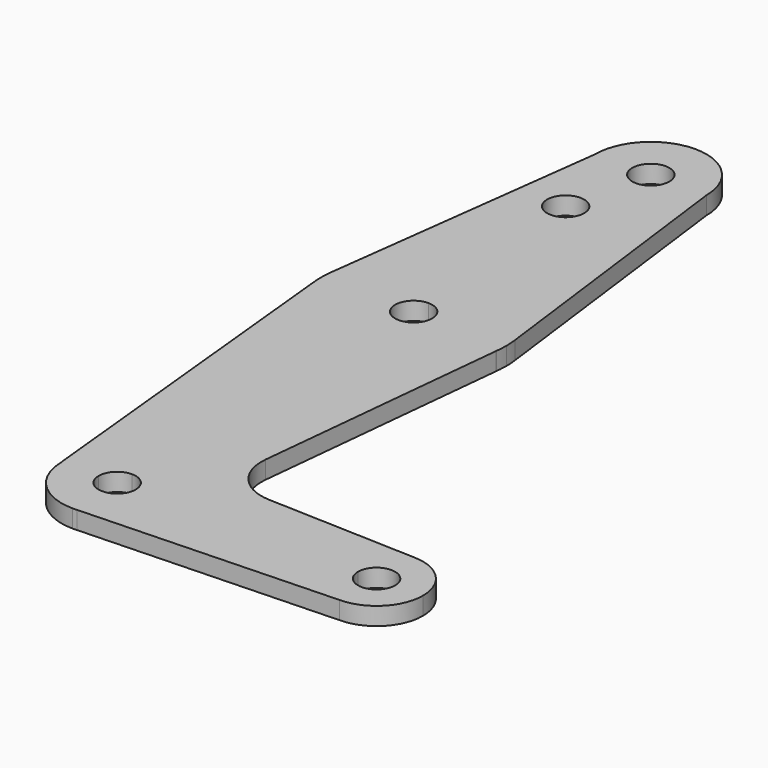
from build123d import *

# Parameters (mm, degrees)
F0_R     = 3.175
F1_DEPTH = 3.048


with BuildPart() as f1:
    # F0 (on Top) → F1 (new body)
    with BuildSketch(Plane.XY):
        with BuildLine():
            ThreePointArc((-3.175, 0), (-2.2450640303, 2.2450640303), (0, 3.175))
            Line((0, 3.175), (0, 3.1943108954))
            Line((0, 3.1943108954), (0, 9.525))
            ThreePointArc((0, 9.525), (-6.7351920908, 6.7351920908), (-9.525, 0))
            Line((-9.525, 0), (-3.175, 0))
        make_face()
        with BuildLine():
            Line((9.525, 0), (3.175, 0))
            ThreePointArc((3.175, 0), (2.2450640303, -2.2450640303), (0, -3.175))
            Line((0, -3.175), (0, -9.525))
            Line((0, -9.525), (0.6773435479, -9.500885786))
            ThreePointArc((0.6773435479, -9.500885786), (6.9705567315, -6.4912990883), (9.525, 0))
        make_face()
        with BuildLine():
            ThreePointArc((0, -3.175), (-2.2450640303, -2.2450640303), (-3.175, 0))
            Line((-3.175, 0), (-9.525, 0))
            ThreePointArc((-9.525, 0), (-6.7351920908, -6.7351920908), (0, -9.525))
            Line((0, -9.525), (0, -3.175))
        make_face()
        with BuildLine():
            ThreePointArc((0, 9.525), (6.7351920908, 6.7351920908), (9.525, 0))
            Line((9.525, 0), (36.5125, 0))
            ThreePointArc((36.5125, 0), (38.8373399243, 5.6126600757), (44.45, 7.9375))
            Line((44.45, 7.9375), (18.9322510366, 8.8523612883))
            ThreePointArc((18.9322510366, 8.8523612883), (13.2244578226, 11.5730964697), (11.3073615093, 17.5985462477))
            Line((11.3073615093, 17.5985462477), (15.7526953342, 61.4905471091))
            Line((15.7526953342, 61.4905471091), (15.7526953342, 61.5332222526))
            ThreePointArc((15.7526953342, 61.5332222526), (10.5069745469, 51.5996171965), (0, 47.625))
            Line((0, 47.625), (0, 9.5311195753))
            Line((0, 9.5311195753), (0, 9.525))
        make_face()
        with BuildLine():
            Line((36.5125, 0), (9.525, 0))
            ThreePointArc((9.525, 0), (6.9705567315, -6.4912990883), (0.6773435479, -9.500885786))
            Line((0.6773435479, -9.500885786), (44.45, -7.9425285691))
            Line((44.45, -7.9425285691), (44.45, -7.9375))
            ThreePointArc((44.45, -7.9375), (38.8373399243, -5.6126600757), (36.5125, 0))
        make_face()
        with BuildLine():
            Line((-9.5728981409, 0), (-9.525, 0))
            ThreePointArc((-9.525, 0), (-6.7351920908, 6.7351920908), (0, 9.525))
            Line((0, 9.525), (0, 9.5311195753))
            Line((0, 9.5311195753), (0, 47.625))
            ThreePointArc((0, 47.625), (-10.490842682, 51.5853936355), (-15.7473084709, 61.4905471091))
            Line((-15.7473084709, 61.4905471091), (-9.5728981409, 0))
        make_face()
        with BuildLine():
            Line((15.7526953342, 61.5332222526), (15.7526953342, 65.4667777474))
            ThreePointArc((15.7526953342, 65.4667777474), (10.5069745469, 75.4003828035), (0, 79.375))
            Line((0, 79.375), (0, 66.675))
            ThreePointArc((0, 66.675), (2.2450640303, 65.7450640303), (3.175, 63.5))
            ThreePointArc((3.175, 63.5), (2.2450640303, 61.2549359697), (0, 60.325))
            Line((0, 60.325), (0, 47.625))
            ThreePointArc((0, 47.625), (10.5069745469, 51.5996171965), (15.7526953342, 61.5332222526))
        make_face()
        with BuildLine():
            Line((0.6773435479, -9.500885786), (0, -9.525))
            ThreePointArc((0, -9.525), (0.3388863295, -9.5189695375), (0.6773435479, -9.500885786))
        make_face()
        with BuildLine():
            ThreePointArc((44.45, 7.9375), (38.8373399243, 5.6126600757), (36.5125, 0))
            Line((36.5125, 0), (41.275, 0))
            ThreePointArc((41.275, 0), (44.45, 3.175), (47.625, 0))
            ThreePointArc((47.625, 0), (46.6950640303, -2.2450640303), (44.45, -3.175))
            Line((44.45, -3.175), (44.45, -7.9375))
            ThreePointArc((44.45, -7.9375), (50.0626600757, -5.6126600757), (52.3875, 0))
            ThreePointArc((52.3875, 0), (50.0626600757, 5.6126600757), (44.45, 7.9375))
        make_face()
        with BuildLine():
            Line((41.275, 0), (36.5125, 0))
            ThreePointArc((36.5125, 0), (38.8373399243, -5.6126600757), (44.45, -7.9375))
            Line((44.45, -7.9375), (44.45, -3.175))
            ThreePointArc((44.45, -3.175), (42.2049359697, -2.2450640303), (41.275, 0))
        make_face()
        with BuildLine():
            Line((-15.7473084709, 65.5094528909), (-15.7473084709, 61.4905471091))
            ThreePointArc((-15.7473084709, 61.4905471091), (-10.490842682, 51.5853936355), (0, 47.625))
            Line((0, 47.625), (0, 60.325))
            ThreePointArc((0, 60.325), (-3.175, 63.5), (0, 66.675))
            Line((0, 66.675), (0, 79.375))
            ThreePointArc((0, 79.375), (-10.490842682, 75.4146063645), (-15.7473084709, 65.5094528909))
        make_face()
        with BuildLine():
            ThreePointArc((-15.7473084709, 65.5094528909), (-15.875, 63.5), (-15.7473084709, 61.4905471091))
            Line((-15.7473084709, 61.4905471091), (-15.7473084709, 65.5094528909))
        make_face()
        with BuildLine():
            Line((-9.524957719, 114.2716195226), (-15.7473084709, 65.5094528909))
            ThreePointArc((-15.7473084709, 65.5094528909), (-10.490842682, 75.4146063645), (0, 79.375))
            Line((0, 79.375), (0, 100.0252))
            Line((0, 100.0252), (0, 104.775))
            ThreePointArc((0, 104.775), (-6.7251505913, 107.5547813583), (-9.524957719, 114.2716195226))
        make_face()
        with Locations((-3.175, 100.0252)):
            Circle(F0_R, mode=Mode.SUBTRACT)
        with BuildLine():
            Line((15.7526953342, 65.4667777474), (15.7526953342, 61.5332222526))
            ThreePointArc((15.7526953342, 61.5332222526), (15.844394331, 62.5147115728), (15.875, 63.5))
            ThreePointArc((15.875, 63.5), (15.844394331, 64.4852884272), (15.7526953342, 65.4667777474))
        make_face()
        with BuildLine():
            Line((0, 100.0252), (0, 79.375))
            ThreePointArc((0, 79.375), (10.5069745469, 75.4003828035), (15.7526953342, 65.4667777474))
            Line((15.7526953342, 65.4667777474), (9.525, 114.3))
            ThreePointArc((9.525, 114.3), (6.7351920908, 107.5648079092), (0, 104.775))
            Line((0, 104.775), (0, 100.0252))
        make_face()
        with BuildLine():
            ThreePointArc((9.525, 114.3), (-0.0141902545, 123.8249894297), (-9.524957719, 114.2716195226))
            ThreePointArc((-9.524957719, 114.2716195226), (-6.7251505913, 107.5547813583), (0, 104.775))
            ThreePointArc((0, 104.775), (6.7351920908, 107.5648079092), (9.525, 114.3))
        make_face()
        with BuildLine():
            ThreePointArc((3.175, 114.3), (2.2450640303, 112.0549359697), (0, 111.125))
            ThreePointArc((0, 111.125), (-2.2450640303, 116.5450640303), (3.175, 114.3))
        make_face(mode=Mode.SUBTRACT)
        with BuildLine():
            Line((0, 3.1943108954), (0, 3.175))
            ThreePointArc((0, 3.175), (2.2450640303, 2.2450640303), (3.175, 0))
            Line((3.175, 0), (9.525, 0))
            ThreePointArc((9.525, 0), (6.7351920908, 6.7351920908), (0, 9.525))
            Line((0, 9.525), (0, 3.1943108954))
        make_face()
    extrude(amount=F1_DEPTH)


solid = f1.part
